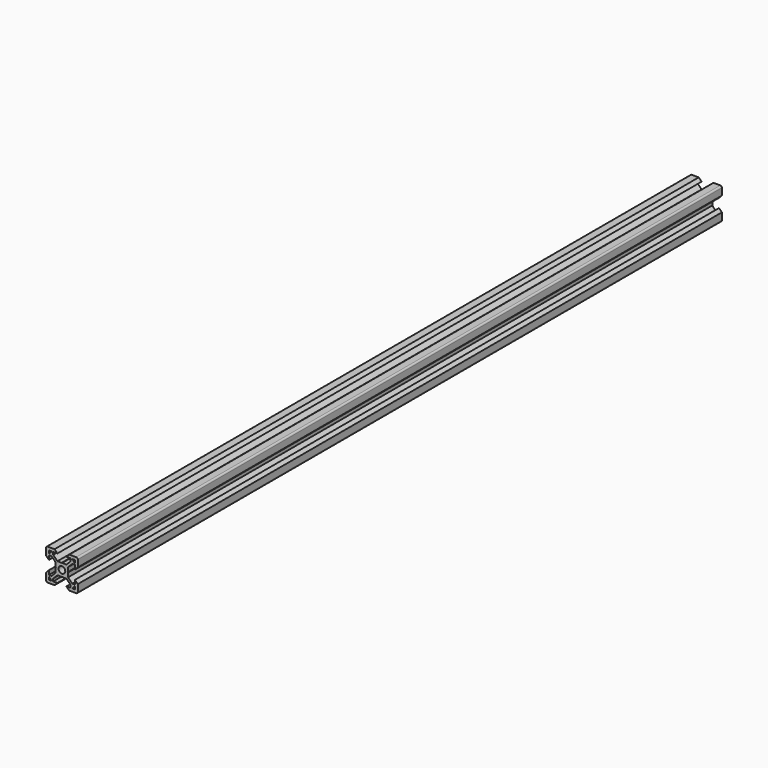
from build123d import *

# Parameters (mm, degrees)
F0_R     = 2.1
F1_DEPTH = 508


with BuildPart() as f1:
    # F0 (on Front) → F1 (new body)
    with BuildSketch(Plane.XZ):
        with BuildLine():
            Line((-4.64, 10), (-9, 10))
            ThreePointArc((-9, 10), (-9.707107, 9.707107), (-10, 9))
            Line((-10, 9), (-10, 4.64))
            Line((-10, 4.64), (-8.2, 2.84))
            Line((-8.2, 2.84), (-8.2, 5.49934))
            Line((-8.2, 5.49934), (-6.56, 5.49934))
            Line((-6.56, 5.49934), (-3.90066, 2.84))
            Line((-3.90066, 2.84), (-3.90066, 0.15))
            Line((-3.90066, 0.15), (-3.75066, 0))
            Line((-3.75066, 0), (-3.90066, -0.15))
            Line((-3.90066, -0.15), (-3.90066, -2.84))
            Line((-3.90066, -2.84), (-6.56, -5.49934))
            Line((-6.56, -5.49934), (-8.2, -5.49934))
            Line((-8.2, -5.49934), (-8.2, -2.84))
            Line((-8.2, -2.84), (-10, -4.64))
            Line((-10, -4.64), (-10, -9))
            ThreePointArc((-10, -9), (-9.707107, -9.707107), (-9, -10))
            Line((-9, -10), (-4.64, -10))
            Line((-4.64, -10), (-2.84, -8.2))
            Line((-2.84, -8.2), (-5.49934, -8.2))
            Line((-5.49934, -8.2), (-5.49934, -6.56))
            Line((-5.49934, -6.56), (-2.84, -3.90066))
            Line((-2.84, -3.90066), (-0.15, -3.90066))
            Line((-0.15, -3.90066), (0, -3.75066))
            Line((0, -3.75066), (0.15, -3.90066))
            Line((0.15, -3.90066), (2.84, -3.90066))
            Line((2.84, -3.90066), (5.49934, -6.56))
            Line((5.49934, -6.56), (5.49934, -8.2))
            Line((5.49934, -8.2), (2.84, -8.2))
            Line((2.84, -8.2), (4.64, -10))
            Line((4.64, -10), (9, -10))
            ThreePointArc((9, -10), (9.707107, -9.707107), (10, -9))
            Line((10, -9), (10, -4.64))
            Line((10, -4.64), (8.2, -2.84))
            Line((8.2, -2.84), (8.2, -5.49934))
            Line((8.2, -5.49934), (6.56, -5.49934))
            Line((6.56, -5.49934), (3.90066, -2.84))
            Line((3.90066, -2.84), (3.90066, -0.15))
            Line((3.90066, -0.15), (3.75066, 0))
            Line((3.75066, 0), (3.90066, 0.15))
            Line((3.90066, 0.15), (3.90066, 2.84))
            Line((3.90066, 2.84), (6.56, 5.49934))
            Line((6.56, 5.49934), (8.2, 5.49934))
            Line((8.2, 5.49934), (8.2, 2.84))
            Line((8.2, 2.84), (10, 4.64))
            Line((10, 4.64), (10, 9))
            ThreePointArc((10, 9), (9.707107, 9.707107), (9, 10))
            Line((9, 10), (4.64, 10))
            Line((4.64, 10), (2.84, 8.2))
            Line((2.84, 8.2), (5.49934, 8.2))
            Line((5.49934, 8.2), (5.49934, 6.56))
            Line((5.49934, 6.56), (2.84, 3.90066))
            Line((2.84, 3.90066), (0.15, 3.90066))
            Line((0.15, 3.90066), (0, 3.75066))
            Line((0, 3.75066), (-0.15, 3.90066))
            Line((-0.15, 3.90066), (-2.84, 3.90066))
            Line((-2.84, 3.90066), (-5.49934, 6.56))
            Line((-5.49934, 6.56), (-5.49934, 8.2))
            Line((-5.49934, 8.2), (-2.84, 8.2))
            Line((-2.84, 8.2), (-4.64, 10))
        make_face()
        with BuildLine():
            Line((-8.2, -8.2), (-8.2, -6.71))
            ThreePointArc((-8.2, -6.71), (-8.156066, -6.603934), (-8.05, -6.56))
            Line((-8.05, -6.56), (-7.98749, -6.56))
            Line((-7.98749, -6.56), (-6.603934, -7.943556))
            ThreePointArc((-6.603934, -7.943556), (-6.571418, -7.992219), (-6.56, -8.049622))
            Line((-6.56, -8.049622), (-6.56, -8.05))
            ThreePointArc((-6.56, -8.05), (-6.603934, -8.156066), (-6.71, -8.2))
            Line((-6.71, -8.2), (-8.2, -8.2))
        make_face(mode=Mode.SUBTRACT)
        with BuildLine():
            ThreePointArc((6.71, -8.2), (6.603934, -8.156066), (6.56, -8.05))
            Line((6.56, -8.05), (6.56, -7.98749))
            Line((6.56, -7.98749), (7.943556, -6.603934))
            ThreePointArc((7.943556, -6.603934), (7.992219, -6.571418), (8.049622, -6.56))
            Line((8.049622, -6.56), (8.2, -6.56))
            Line((8.2, -6.56), (8.2, -8.05))
            ThreePointArc((8.2, -8.05), (8.156066, -8.156066), (8.05, -8.2))
            Line((8.05, -8.2), (6.71, -8.2))
        make_face(mode=Mode.SUBTRACT)
        with BuildLine():
            ThreePointArc((-8.2, 8.05), (-8.156066, 8.156066), (-8.05, 8.2))
            Line((-8.05, 8.2), (-6.71, 8.2))
            ThreePointArc((-6.71, 8.2), (-6.603934, 8.156066), (-6.56, 8.05))
            Line((-6.56, 8.05), (-6.56, 8.049622))
            ThreePointArc((-6.56, 8.049622), (-6.571418, 7.992219), (-6.603934, 7.943556))
            Line((-6.603934, 7.943556), (-7.943556, 6.603934))
            ThreePointArc((-7.943556, 6.603934), (-7.992219, 6.571418), (-8.049622, 6.56))
            Line((-8.049622, 6.56), (-8.05, 6.56))
            ThreePointArc((-8.05, 6.56), (-8.156066, 6.603934), (-8.2, 6.71))
            Line((-8.2, 6.71), (-8.2, 8.05))
        make_face(mode=Mode.SUBTRACT)
        Circle(F0_R, mode=Mode.SUBTRACT)
        with BuildLine():
            Line((8.2, 8.05), (8.2, 6.71))
            ThreePointArc((8.2, 6.71), (8.156066, 6.603934), (8.05, 6.56))
            Line((8.05, 6.56), (7.98749, 6.56))
            Line((7.98749, 6.56), (6.56, 7.98749))
            Line((6.56, 7.98749), (6.56, 8.05))
            ThreePointArc((6.56, 8.05), (6.603934, 8.156066), (6.71, 8.2))
            Line((6.71, 8.2), (8.05, 8.2))
            ThreePointArc((8.05, 8.2), (8.156066, 8.156066), (8.2, 8.05))
        make_face(mode=Mode.SUBTRACT)
    extrude(amount=F1_DEPTH)


solid = f1.part
